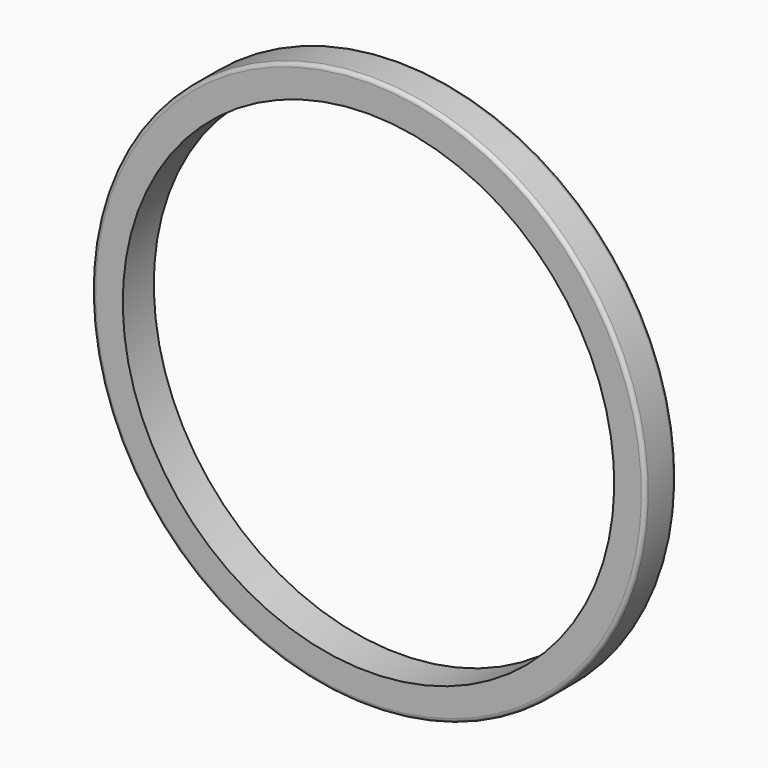
from build123d import *


with BuildPart() as f1:
    # F0 (on Right) → F1 (revolve)
    with BuildSketch(Plane.YZ):
        with BuildLine():
            Line((-125, 1585), (125, 1585))
            Line((125, 1585), (125, 1760))
            ThreePointArc((125, 1760), (117.67767, 1777.67767), (100, 1785))
            Line((100, 1785), (-100, 1785))
            ThreePointArc((-100, 1785), (-117.67767, 1777.67767), (-125, 1760))
            Line((-125, 1760), (-125, 1585))
        make_face()
    revolve(axis=Axis((0, -0.372693, 0), (0, 1, 0)))


solid = f1.part
